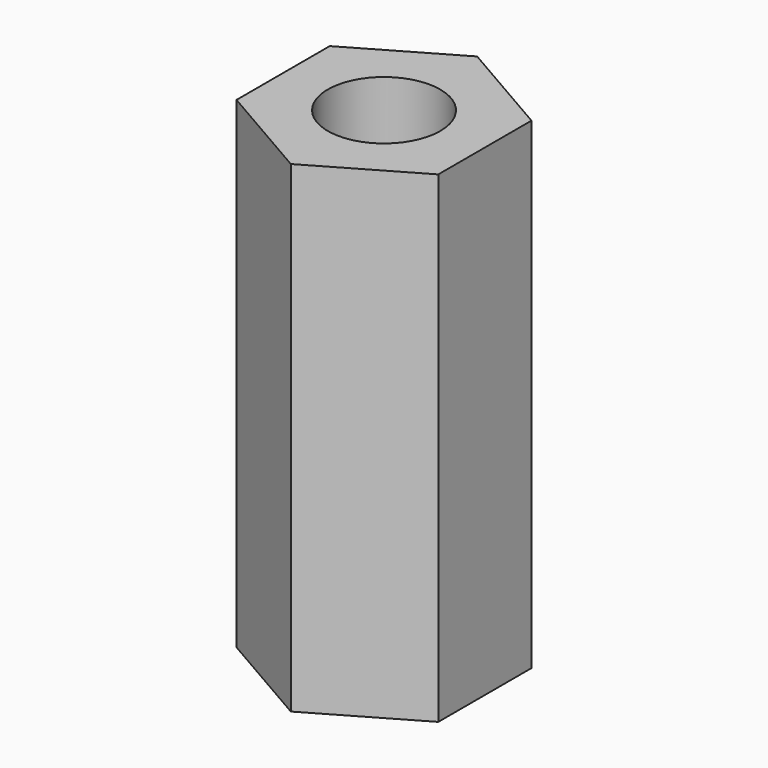
from build123d import *

# Parameters (mm, degrees)
SKETCH_R  = 1.4
PAD_DEPTH = 12


with BuildPart() as part:
    # Sketch → Pad (new body)
    with BuildSketch(Plane.XY):
        Polygon((2.511474, 1.45), (0, 2.9), (-2.511474, 1.45), (-2.511474, -1.45), (0, -2.9), (2.511474, -1.45), align=None)
        Circle(SKETCH_R, mode=Mode.SUBTRACT)
    extrude(amount=PAD_DEPTH)


solid = part.part
